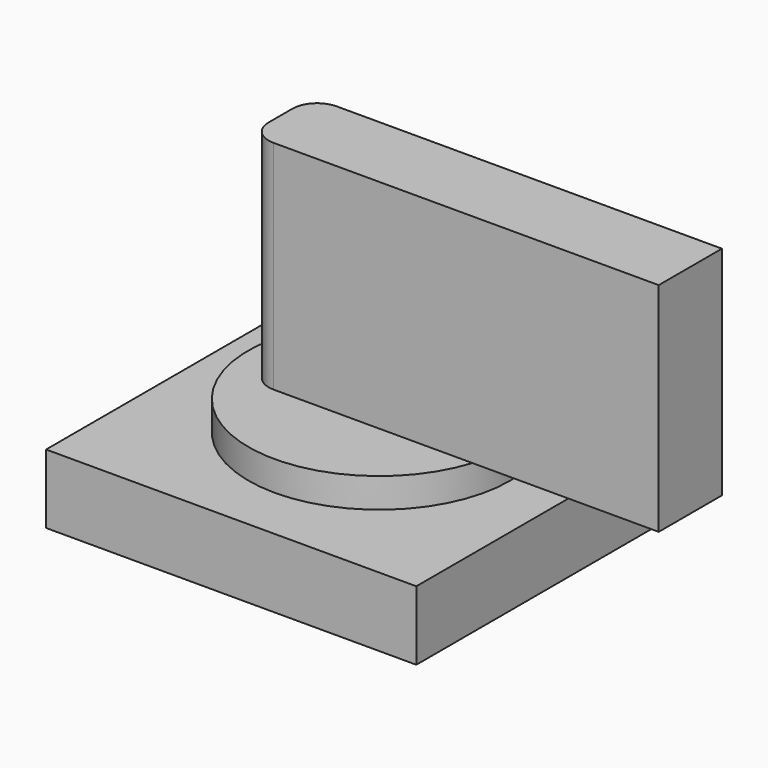
from build123d import *

# Parameters (mm, degrees)
F0_W     = 75
F0_H     = 75
F1_DEPTH = 14
F2_R     = 26.5
F3_DEPTH = 6
F5_DEPTH = 44


with BuildPart() as f1:
    # F0 (on Top) → F1 (new body)
    with BuildSketch(Plane.XY):
        Rectangle(F0_W, F0_H)
    extrude(amount=F1_DEPTH)


with BuildPart() as f3:
    # F2 (on face) → F3 (new body)
    with BuildSketch(Plane.XY.offset(14)):
        Circle(F2_R)
    extrude(amount=F3_DEPTH)

    # F4 (on face) → F5 (join)
    with BuildSketch(Plane.XY.offset(20)):
        with BuildLine():
            Line((63, 8), (-15, 8))
            ThreePointArc((-15, 8), (-18.535534, 6.535534), (-20, 3))
            Line((-20, 3), (-20, -3))
            ThreePointArc((-20, -3), (-18.535534, -6.535534), (-15, -8))
            Line((-15, -8), (63, -8))
            Line((63, -8), (63, 8))
        make_face()
    extrude(amount=F5_DEPTH)


solid = Compound([f1.part, f3.part])
